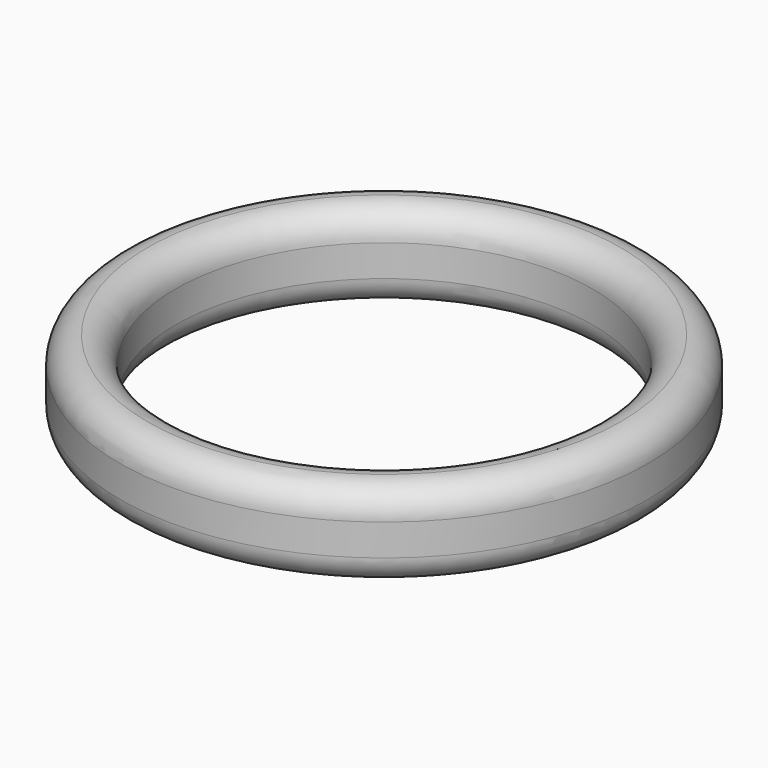
from build123d import *


with BuildPart() as f1:
    # F0 (on Front) → F1 (revolve)
    with BuildSketch(Plane.XZ):
        with BuildLine():
            ThreePointArc((47.625, 13.803746), (43.689951, 12.173795), (42.06, 8.238746))
            Line((42.06, 8.238746), (42.06, 1.868746))
            ThreePointArc((42.06, 1.868746), (43.689951, -2.066304), (47.625, -3.696254))
            ThreePointArc((47.625, -3.696254), (51.560049, -2.066304), (53.19, 1.868746))
            Line((53.19, 1.868746), (53.19, 8.238746))
            ThreePointArc((53.19, 8.238746), (51.560049, 12.173795), (47.625, 13.803746))
        make_face()
    revolve(axis=Axis((0, 0, 20.993052), (0, 0, 1)))


solid = f1.part
